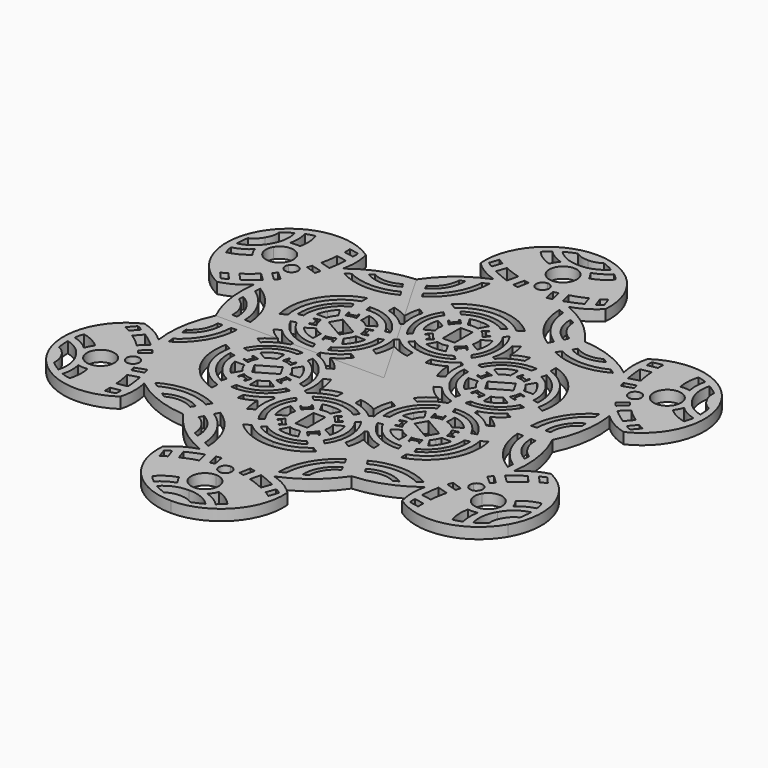
from build123d import *

# Parameters (mm, degrees)
F1_DEPTH = 2.54
F4_COUNT = 6


with BuildPart() as f1:
    # F0 (on Top) → F1 (new body)
    with BuildSketch(Plane.XY):
        with BuildLine():
            Line((-6.270077866, 10.8600934312), (0, 0))
            Line((0, 0), (0, 12.1076973155))
            ThreePointArc((0, 12.1076973155), (-2.9059060186, 12.568036838), (-5.5193193257, 13.9194335788))
            Line((-5.5193193257, 13.9194335788), (-4.6278303489, 14.7534068674))
            ThreePointArc((-4.6278303489, 14.7534068674), (-2.4153037271, 13.7081455553), (0, 13.315522112))
            Line((0, 13.315522112), (0, 14.8513680324))
            ThreePointArc((0, 14.8513680324), (-1.1409167779, 14.9024226208), (-2.2492711432, 15.1778282598))
            Line((-2.2492711432, 15.1778282598), (-1.2094341218, 17.1486828476))
            ThreePointArc((-1.2094341218, 17.1486828476), (-0.6150420729, 16.9851565163), (0, 16.9431325048))
            Line((0, 16.9431325048), (0, 18.8215561211))
            Line((0, 18.8215561211), (-1.3817464933, 18.8215561211))
            Line((-1.3817464933, 18.8215561211), (-1.3817464933, 24.0713078529))
            Line((-1.3817464933, 24.0713078529), (0, 24.0713078529))
            Line((0, 24.0713078529), (0, 25.9720683098))
            ThreePointArc((0, 25.9720683098), (-0.5968992559, 25.980031228), (-1.1766387615, 25.8377138525))
            Line((-1.1766387615, 25.8377138525), (-2.2514730226, 27.7954488993))
            ThreePointArc((-2.2514730226, 27.7954488993), (-1.1454095682, 28.0963972656), (0, 28.1409304589))
            Line((0, 28.1409304589), (0, 29.65721488))
            ThreePointArc((0, 29.65721488), (-2.4475046176, 29.317205571), (-4.6698502265, 28.2368976623))
            Line((-4.6698502265, 28.2368976623), (-5.4951692, 29.1006043553))
            ThreePointArc((-5.4951692, 29.1006043553), (-2.8725022783, 30.3616930041), (0, 30.8280158788))
            Line((0, 30.8280158788), (0, 32.2675257921))
            ThreePointArc((0, 32.2675257921), (-3.8506787462, 31.5628541721), (-7.2033880278, 29.542054981))
            Line((-7.2033880278, 29.542054981), (-8.5661243647, 30.3673725575))
            ThreePointArc((-8.5661243647, 30.3673725575), (-4.6109224422, 32.897644557), (0, 33.7838120759))
            Line((0, 33.7838120759), (0, 40.288746357))
            ThreePointArc((0, 40.288746357), (-3.2348283911, 40.7210990581), (-6.212326698, 42.0573428273))
            ThreePointArc((-6.212326698, 42.0573428273), (-3.1480085049, 41.3089162299), (0, 41.1083400249))
            Line((0, 41.1083400249), (0, 44.7078515122))
            ThreePointArc((0, 44.7078515122), (-1.4900397232, 46.1978912354), (0, 47.6879309585))
            Line((0, 47.6879309585), (0, 48.9601836834))
            ThreePointArc((0, 48.9601836834), (-3.1861840453, 52.1463677287), (0, 55.332551774))
            Line((0, 55.332551774), (0, 56.7549131811))
            ThreePointArc((0, 56.7549131811), (-3.0755801383, 57.3065227553), (-5.6616868824, 59.0602383018))
            ThreePointArc((-5.6616868824, 59.0602383018), (-4.3854691151, 59.7184612356), (-3.0596354045, 60.2699629962))
            ThreePointArc((-3.0596354045, 60.2699629962), (-1.6039227865, 59.5701680937), (0, 59.3797899783))
            Line((0, 59.3797899783), (0, 62.0264304846))
            ThreePointArc((0, 62.0264304846), (-10.7050771646, 57.3462571227), (-14.5389568061, 46.3097691536))
            ThreePointArc((-14.5389568061, 46.3097691536), (-11.8255796468, 44.1801935347), (-8.6579518393, 42.815040797))
            ThreePointArc((-8.6579518393, 42.815040797), (-14.8019494795, 39.2153265706), (-19.6066455127, 33.9597061939))
            Line((-19.6066455127, 33.9597061939), (-12.3341323796, 21.3633439487))
            ThreePointArc((-12.3341323796, 21.3633439487), (-12.23639342, 23.2686200422), (-11.8031930178, 25.1265671104))
            Line((-11.8031930178, 25.1265671104), (-10.4520451277, 24.3003591895))
            ThreePointArc((-10.4520451277, 24.3003591895), (-10.8245853058, 21.5256653901), (-10.4215769097, 18.7552329153))
            Line((-10.4215769097, 18.7552329153), (-10.7266483067, 18.5790998621))
            Line((-10.7266483067, 18.5790998621), (-7.6384381039, 13.2301628864))
            Line((-7.6384381039, 13.2301628864), (-7.200690452, 13.4828966111))
            ThreePointArc((-7.200690452, 13.4828966111), (-4.849945908, 11.8660258027), (-2.1373319905, 10.9817199409))
            Line((-2.1373319905, 10.9817199409), (-2.1169972606, 9.3956068158))
            ThreePointArc((-2.1169972606, 9.3956068158), (-4.2773737091, 9.8901024598), (-6.270077866, 10.8600934312))
        make_face()
        with BuildLine():
            Line((-7.7049052343, 26.946676895), (-6.8134162575, 26.1127036065))
            ThreePointArc((-6.8134162575, 26.1127036065), (-8.266833574, 21.5402273461), (-6.8134162575, 16.9677510858))
            Line((-6.8134162575, 16.9677510858), (-7.561116945, 16.1050204188))
            ThreePointArc((-7.561116945, 16.1050204188), (-9.3621423079, 21.5029159233), (-7.7049052343, 26.946676895))
        make_face(mode=Mode.SUBTRACT)
        with BuildLine():
            Line((-6.3567273319, 23.7198676914), (-4.396781791, 22.6310100406))
            ThreePointArc((-4.396781791, 22.6310100406), (-4.550027949, 21.4826500077), (-4.3711615726, 20.3380007297))
            Line((-4.3711615726, 20.3380007297), (-6.3054868951, 19.2875731736))
            ThreePointArc((-6.3054868951, 19.2875731736), (-6.7519209244, 21.4988555294), (-6.3567273319, 23.7198676914))
        make_face(mode=Mode.SUBTRACT)
        with BuildLine():
            Line((-5.0052157603, 18.1674137712), (-3.9399946108, 19.2487761378))
            ThreePointArc((-3.9399946108, 19.2487761378), (-3.2513355107, 18.3129111493), (-2.3257194555, 17.6105369249))
            Line((-2.3257194555, 17.6105369249), (-3.3935297845, 16.526546145))
            Line((-3.3935297845, 16.526546145), (-3.6336414424, 16.763073718))
            Line((-3.6336414424, 16.763073718), (-3.1239727517, 17.2804653806))
            Line((-3.1239727517, 17.2804653806), (-4.3393895353, 18.4777399512))
            Line((-4.3393895353, 18.4777399512), (-4.8224418004, 17.987368031))
            Line((-4.8224418004, 17.987368031), (-5.0052157603, 18.1674137712))
        make_face(mode=Mode.SUBTRACT)
        with BuildLine():
            ThreePointArc((-2.3548255816, 25.4024130494), (-3.2500861186, 24.6738658959), (-3.9208452217, 23.7345285714))
            Line((-3.9208452217, 23.7345285714), (-4.9884207547, 24.8122718185))
            Line((-4.9884207547, 24.8122718185), (-4.773898608, 25.0247701067))
            Line((-4.773898608, 25.0247701067), (-4.2891957015, 24.5354508331))
            Line((-4.2891957015, 24.5354508331), (-3.0813642837, 25.7318872505))
            Line((-3.0813642837, 25.7318872505), (-3.5626142741, 26.217720722))
            Line((-3.5626142741, 26.217720722), (-3.3606312782, 26.417798157))
            Line((-3.3606312782, 26.417798157), (-2.3548255816, 25.4024130494))
        make_face(mode=Mode.SUBTRACT)
        with BuildLine():
            Line((-16.1522794515, 32.1697704494), (-16.659533605, 33.1661626697))
            ThreePointArc((-16.659533605, 33.1661626697), (-14.2546540125, 35.3598162261), (-13.3080324158, 38.4742133319))
            Line((-13.3080324158, 38.4742133319), (-12.2210588306, 38.9995835721))
            ThreePointArc((-12.2210588306, 38.9995835721), (-13.2156524167, 35.0257626011), (-16.1522794515, 32.1697704494))
        make_face(mode=Mode.SUBTRACT)
        with BuildLine():
            Line((-14.6508505568, 29.3148141354), (-15.2464676648, 30.4668433964))
            ThreePointArc((-15.2464676648, 30.4668433964), (-11.1678856206, 34.6900101832), (-9.4492770731, 40.303952992))
            Line((-9.4492770731, 40.303952992), (-8.1913722679, 40.9099198878))
            ThreePointArc((-8.1913722679, 40.9099198878), (-9.9495844164, 34.2925990091), (-14.6508505568, 29.3148141354))
        make_face(mode=Mode.SUBTRACT)
        with BuildLine():
            ThreePointArc((-12.6621164382, 49.5097488165), (-12.0256870106, 49.0700244587), (-11.3396318629, 48.7126335502))
            Line((-11.3396318629, 48.7126335502), (-12.1005140245, 46.5568043292))
            ThreePointArc((-12.1005140245, 46.5568043292), (-12.791788435, 46.8776676727), (-13.3867654949, 47.3539195955))
            Line((-13.3867654949, 47.3539195955), (-12.6621164382, 49.5097488165))
        make_face(mode=Mode.SUBTRACT)
        with BuildLine():
            ThreePointArc((-9.5369284973, 47.8048734367), (-7.7432606019, 47.0086238494), (-5.873514805, 46.4125461876))
            Line((-5.873514805, 46.4125461876), (-6.4906311648, 43.899198027))
            ThreePointArc((-6.4906311648, 43.899198027), (-8.4337816003, 44.6487361655), (-10.3243915364, 45.5223694444))
            Line((-10.3243915364, 45.5223694444), (-9.5369284973, 47.8048734367))
        make_face(mode=Mode.SUBTRACT)
        with BuildLine():
            Line((-4.5581194572, 43.3478839695), (-3.9304317906, 45.9042862058))
            ThreePointArc((-3.9304317906, 45.9042862058), (-3.3894452347, 45.7533061373), (-2.8348311316, 45.6646233797))
            Line((-2.8348311316, 45.6646233797), (-3.3369814046, 43.0739820004))
            ThreePointArc((-3.3369814046, 43.0739820004), (-3.9503845209, 43.1982977521), (-4.5581194572, 43.3478839695))
        make_face(mode=Mode.SUBTRACT)
        with BuildLine():
            ThreePointArc((-7.2119040415, 58.0328218639), (-5.4785220821, 56.6537509055), (-3.4597222693, 55.7422153652))
            ThreePointArc((-3.4597222693, 55.7422153652), (-4.1384944075, 54.8528420973), (-4.6566827223, 53.8612790406))
            ThreePointArc((-4.6566827223, 53.8612790406), (-6.8860930218, 54.9201272094), (-8.7504414842, 56.5374195576))
            ThreePointArc((-8.7504414842, 56.5374195576), (-8.0269004828, 57.3321674546), (-7.2119040415, 58.0328218639))
        make_face(mode=Mode.SUBTRACT)
        with BuildLine():
            Line((0, 40.288746357), (0, 41.1083400249))
            ThreePointArc((0, 41.1083400249), (-3.1480085049, 41.3089162299), (-6.212326698, 42.0573428273))
            ThreePointArc((-6.212326698, 42.0573428273), (-3.2348283911, 40.7210990581), (0, 40.288746357))
        make_face()
    extrude(amount=-F1_DEPTH)

    # F2: F1 across plane


with BuildPart() as f1_1:
    add(f1.part)
    add(f1.part.mirror(Plane.YZ))

    # F4: F1 ×6 about axis
    f4_axis = Axis((0, 0, -8.9863929898), (0, 0, -1))


with BuildPart() as f1_2:
    add(f1_1.part)
    for i in range(1, F4_COUNT):
        add(f1_1.part.rotate(f4_axis, i * 360 / F4_COUNT))


solid = f1_2.part
